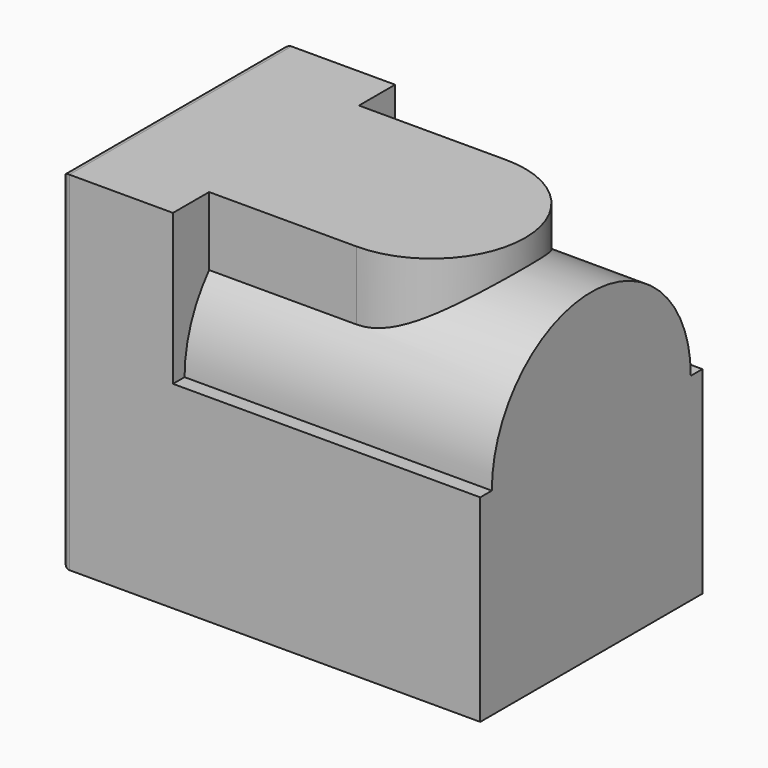
from build123d import *

# Parameters (mm, degrees)
F0_W      = 13.3
F0_H      = 8.82
F1_DEPTH  = 6.28
F2_R      = 3.95
F3_DEPTH  = 13.3
F4_W      = 8.82
F4_H      = 11.06
F5_DEPTH  = 3.54
F6_R      = 0.25
F7_W      = 4.685
F7_H      = 5.95
F9_R      = 3.25
F10_DEPTH = 9.4
F11_R     = 0.75
F12_DEPTH = 7.85
F13_R     = 0.875
F14_DEPTH = 1.5


with BuildPart() as f1:
    # F0 (on Top) → F1 (new body)
    with BuildSketch(Plane.XY):
        Rectangle(F0_W, F0_H)
    extrude(amount=F1_DEPTH)

    # F2 (on face) → F3 (join, through all)
    with BuildSketch(Plane.YZ.offset(6.65)):
        with Locations((0, 6.28)):
            Circle(F2_R)
    extrude(amount=-F3_DEPTH)

    # F4 (on face) → F5 (join)
    with BuildSketch(Plane(origin=(-6.65, 0, 0), x_dir=(0, -1, 0), z_dir=(-1, 0, 0))):
        with Locations((0, 5.53)):
            Rectangle(F4_W, F4_H)
    extrude(amount=-F5_DEPTH)

    # F6
    f6_edges = [f1.edges().sort_by_distance(p)[0] for p in [
        (-6.65, 0, 11.06),
        (-6.65, 4.41, 5.53),
        (-6.65, 0, 0),
        (-6.65, -4.41, 5.53),
    ]]
    fillet(f6_edges, radius=F6_R)

    # F7 (on face) → F8 (join, up to the next surface of F1)
    with BuildSketch(Plane.XY.offset(11.06)):
        with Locations((-0.7675, 0)):
            Rectangle(F7_W, F7_H)
        with BuildLine():
            Line((1.575, 2.975), (1.575, -2.975))
            ThreePointArc((1.575, -2.975), (4.55, 0), (1.575, 2.975))
        make_face()
    extrude(until=Until.NEXT, dir=(0, 0, -1))

    # F9 (on face) → F10 (cut)
    with BuildSketch(Plane(origin=(-6.65, 0, 0), x_dir=(0, -1, 0), z_dir=(-1, 0, 0))):
        with Locations((0, 6.5)):
            Circle(F9_R)
    extrude(amount=-F10_DEPTH, mode=Mode.SUBTRACT)

    # F11 (on face) → F12 (join)
    with BuildSketch(Plane(origin=(2.75, 0, 0), x_dir=(0, -1, 0), z_dir=(-1, 0, 0))):
        with Locations((0, 6.5)):
            Circle(F11_R)
    extrude(amount=F12_DEPTH)

    # F13 (on face) → F14 (join)
    with BuildSketch(Plane(origin=(0, 0, 0), x_dir=(1, 0, 0), z_dir=(0, 0, -1))):
        with Locations((-1.425, 0)):
            Circle(F13_R)
        with Locations((3.275, 0)):
            Circle(F13_R)
    extrude(amount=F14_DEPTH)


solid = f1.part
